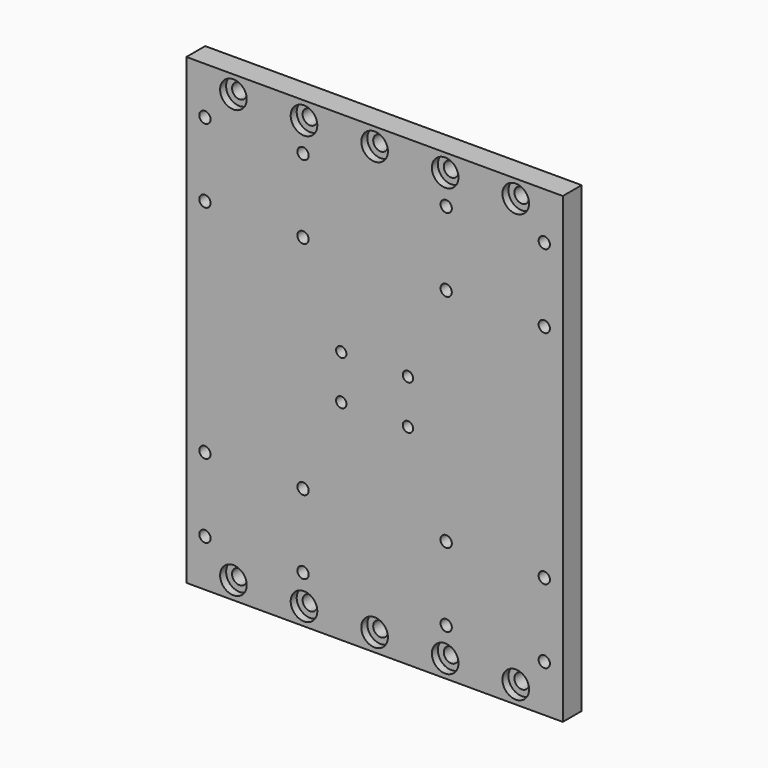
from build123d import *

# Parameters (mm, degrees)
F0_W      = 203.2
F0_H      = 249.9106
F0_R      = 3.048
F1_DEPTH  = 12.7
F2_R      = 2.794
F3_DEPTH  = 12.701
F4_R      = 4.0005
F5_DEPTH  = 12.701
F6_DEPTH  = 12.701
F7_R      = 7.1882
F8_DEPTH  = 4.064
F9_R      = 5.461
F9_R_2    = 4.699
F10_DEPTH = 3.81


with BuildPart() as f1:
    # F0 (on Front) → F1 (new body)
    with BuildSketch(Plane.XZ):
        Rectangle(F0_W, F0_H)
        with Locations((-91.5924, -99.5553)):
            Circle(F0_R, mode=Mode.SUBTRACT)
        with Locations((-38.6334, -99.5553)):
            Circle(F0_R, mode=Mode.SUBTRACT)
        with Locations((-91.5924, -59.6773)):
            Circle(F0_R, mode=Mode.SUBTRACT)
        with Locations((-38.6334, -59.6773)):
            Circle(F0_R, mode=Mode.SUBTRACT)
        with Locations((38.6334, -99.5553)):
            Circle(F0_R, mode=Mode.SUBTRACT)
        with Locations((91.5924, -99.5553)):
            Circle(F0_R, mode=Mode.SUBTRACT)
        with Locations((38.6334, -59.6773)):
            Circle(F0_R, mode=Mode.SUBTRACT)
        with Locations((91.5924, -59.6773)):
            Circle(F0_R, mode=Mode.SUBTRACT)
        with Locations((-91.5924, 59.6773)):
            Circle(F0_R, mode=Mode.SUBTRACT)
        with Locations((-38.6334, 59.6773)):
            Circle(F0_R, mode=Mode.SUBTRACT)
        with Locations((-91.5924, 99.5553)):
            Circle(F0_R, mode=Mode.SUBTRACT)
        with Locations((-38.6334, 99.5553)):
            Circle(F0_R, mode=Mode.SUBTRACT)
        with Locations((38.6334, 59.6773)):
            Circle(F0_R, mode=Mode.SUBTRACT)
        with Locations((91.5924, 59.6773)):
            Circle(F0_R, mode=Mode.SUBTRACT)
        with Locations((38.6334, 99.5553)):
            Circle(F0_R, mode=Mode.SUBTRACT)
        with Locations((91.5924, 99.5553)):
            Circle(F0_R, mode=Mode.SUBTRACT)
    extrude(amount=F1_DEPTH)

    # F2 (on face) → F3 (cut, through all)
    with BuildSketch(Plane.XZ.offset(12.7)):
        with Locations((-17.9959, 11.938)):
            Circle(F2_R)
        with Locations((17.9959, 11.938)):
            Circle(F2_R)
        with Locations((17.9959, -11.938)):
            Circle(F2_R)
        with Locations((-17.9959, -11.938)):
            Circle(F2_R)
    extrude(amount=-F3_DEPTH, mode=Mode.SUBTRACT)

    # F4 (on face) → F5 (cut, through all)
    with BuildSketch(Plane.XZ.offset(12.7)):
        with Locations((-76.2, 115.4303)):
            Circle(F4_R)
        with Locations((-38.1, 115.4303)):
            Circle(F4_R)
        with Locations((0, 115.4303)):
            Circle(F4_R)
        with Locations((38.1, 115.4303)):
            Circle(F4_R)
        with Locations((76.2, 115.4303)):
            Circle(F4_R)
        with Locations((-76.2, -115.4303)):
            Circle(F4_R)
        with Locations((-38.1, -115.4303)):
            Circle(F4_R)
        with Locations((0, -115.4303)):
            Circle(F4_R)
        with Locations((38.1, -115.4303)):
            Circle(F4_R)
        with Locations((76.2, -115.4303)):
            Circle(F4_R)
    extrude(amount=-F5_DEPTH, mode=Mode.SUBTRACT)

    # F2 (on face) → F6 (cut, through all)
    with BuildSketch(Plane.XZ.offset(12.7)):
        with Locations((-17.9959, 11.938)):
            Circle(F2_R)
        with Locations((17.9959, 11.938)):
            Circle(F2_R)
        with Locations((17.9959, -11.938)):
            Circle(F2_R)
        with Locations((-17.9959, -11.938)):
            Circle(F2_R)
    extrude(amount=-F6_DEPTH, mode=Mode.SUBTRACT)

    # F7 (on face) → F8 (cut)
    with BuildSketch(Plane.XZ.offset(12.7)):
        with Locations((0, -115.4303)):
            Circle(F7_R)
        with Locations((0, 115.4303)):
            Circle(F7_R)
        with Locations((-38.1, -115.4303)):
            Circle(F7_R)
        with Locations((-76.2, -115.4303)):
            Circle(F7_R)
        with Locations((38.1, -115.4303)):
            Circle(F7_R)
        with Locations((76.2, -115.4303)):
            Circle(F7_R)
        with Locations((-76.2, 115.4303)):
            Circle(F7_R)
        with Locations((-38.1, 115.4303)):
            Circle(F7_R)
        with Locations((38.1, 115.4303)):
            Circle(F7_R)
        with Locations((76.2, 115.4303)):
            Circle(F7_R)
    extrude(amount=-F8_DEPTH, mode=Mode.SUBTRACT)

    # F9 (on face) → F10 (cut)
    with BuildSketch(Plane(origin=(0, 0, 0), x_dir=(-1, 0, 0), z_dir=(0, 1, 0))):
        with Locations((-91.5924, 99.5553)):
            Circle(F9_R)
        with Locations((-38.6334, 99.5553)):
            Circle(F9_R)
        with Locations((38.6334, 99.5553)):
            Circle(F9_R)
        with Locations((91.5924, 99.5553)):
            Circle(F9_R)
        with Locations((-91.5924, 59.6773)):
            Circle(F9_R)
        with Locations((-38.6334, 59.6773)):
            Circle(F9_R)
        with Locations((38.6334, 59.6773)):
            Circle(F9_R)
        with Locations((91.5924, 59.6773)):
            Circle(F9_R)
        with Locations((-91.5924, -59.6773)):
            Circle(F9_R)
        with Locations((-38.6334, -59.6773)):
            Circle(F9_R)
        with Locations((38.6334, -59.6773)):
            Circle(F9_R)
        with Locations((91.5924, -59.6773)):
            Circle(F9_R)
        with Locations((91.5924, -99.5553)):
            Circle(F9_R)
        with Locations((38.6334, -99.5553)):
            Circle(F9_R)
        with Locations((-38.6334, -99.5553)):
            Circle(F9_R)
        with Locations((-91.5924, -99.5553)):
            Circle(F9_R)
        with Locations((-17.9959, 11.938)):
            Circle(F9_R_2)
        with Locations((17.9959, 11.938)):
            Circle(F9_R_2)
        with Locations((17.9959, -11.938)):
            Circle(F9_R_2)
        with Locations((-17.9959, -11.938)):
            Circle(F9_R_2)
    extrude(amount=-F10_DEPTH, mode=Mode.SUBTRACT)


solid = f1.part
